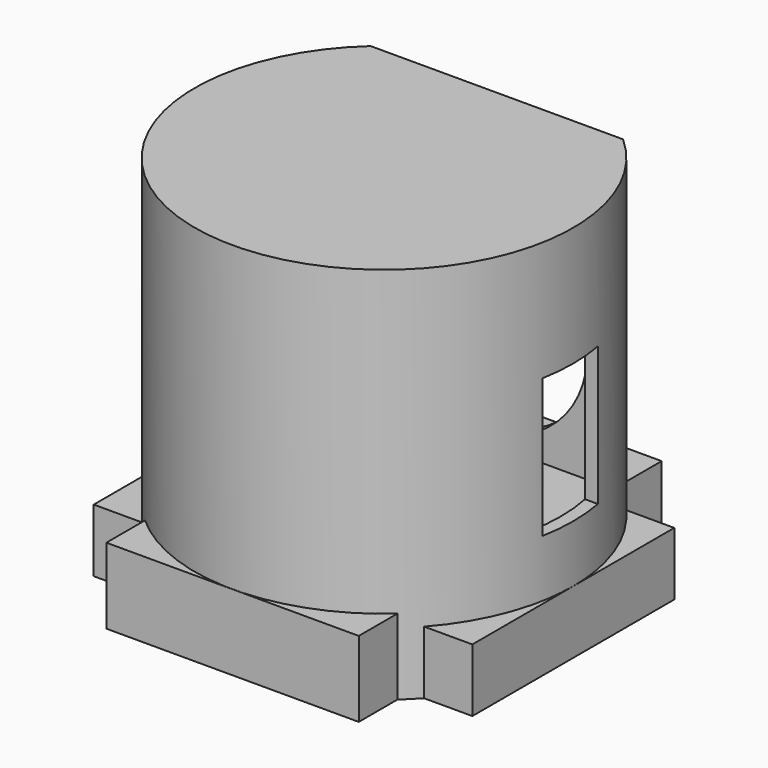
from build123d import *

# Parameters (mm, degrees)
F1_DEPTH  = 150
F2_T      = -5
F4_DEPTH  = 25
F5_W      = 100
F5_H      = 150
F6_DEPTH  = 30
F7_R      = 40
F8_DEPTH  = 30
F9_W      = 27.5
F9_H      = 55
F10_DEPTH = 100
F11_W     = 150
F11_H     = 100
F11_R     = 45
F12_DEPTH = 25
F11_R_2   = 40
F13_DEPTH = 125


with BuildPart() as f1:
    # F0 (on Top) → F1 (new body)
    with BuildSketch(Plane.XY):
        with BuildLine():
            Line((50, 55.9016994375), (-50, 55.9016994375))
            ThreePointArc((-50, 55.9016994375), (0, -75), (50, 55.9016994375))
        make_face()
    extrude(amount=F1_DEPTH)

    # F2
    f2_openings = [f1.faces().sort_by_distance(p)[0] for p in [
        (0, -5.093156, 0),
    ]]
    offset(amount=F2_T, openings=f2_openings)

    # F3 (on face) → F4 (cut)
    with BuildSketch(Plane(origin=(0, 55.9016994375, 0), x_dir=(-1, 0, 0), z_dir=(0, 1, 0))):
        with BuildLine():
            ThreePointArc((0, 114.9999955297), (-28.2842712475, 46.7157242822), (40, 74.9999955297))
            ThreePointArc((40, 74.9999955297), (28.2842712475, 103.2842667771), (0, 114.9999955297))
        make_face()
    extrude(amount=-F4_DEPTH, mode=Mode.SUBTRACT)

    # F9 (on Right) → F10 (cut)
    with BuildSketch(Plane.YZ):
        with Locations((0, 75.1577168703)):
            Rectangle(F9_W, F9_H)
    extrude(amount=F10_DEPTH, mode=Mode.SUBTRACT)


with BuildPart() as f6:
    # F5 (on Top) → F6 (new body)
    with BuildSketch(Plane.XY):
        Rectangle(F5_W, F5_H)
    extrude(amount=F6_DEPTH)

    # F7 (on face) → F8 (cut)
    with BuildSketch(Plane.XY.offset(30)):
        Circle(F7_R)
    extrude(amount=-F8_DEPTH, mode=Mode.SUBTRACT)


with BuildPart() as f12:
    # F11 (on Top) → F12 (new body)
    with BuildSketch(Plane.XY):
        Rectangle(F11_W, F11_H)
        Circle(F11_R, mode=Mode.SUBTRACT)
    extrude(amount=F12_DEPTH)

    # F11 (on Top) → F13 (join)
    with BuildSketch(Plane.XY):
        Circle(F11_R)
        Circle(F11_R_2, mode=Mode.SUBTRACT)
    extrude(amount=F13_DEPTH)


solid = Compound([f1.part, f6.part, f12.part])
